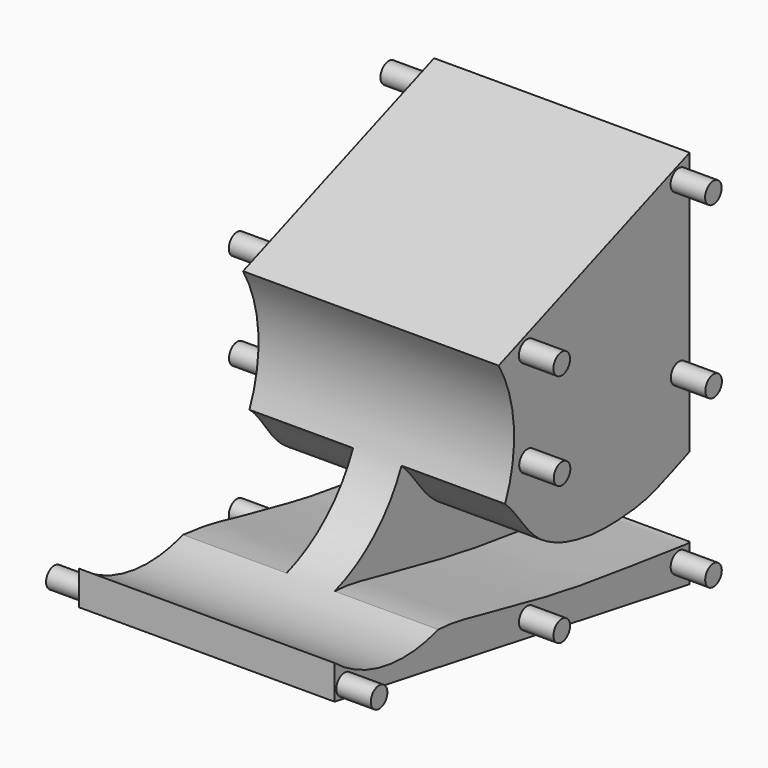
from build123d import *

# Parameters (mm, degrees)
PAD007_DEPTH    = 37
SKETCH023_R     = 1.5
PAD008_DEPTH    = 5
POCKET009_DEPTH = 15
SKETCH025_R     = 1.5
PAD009_DEPTH    = 5
POCKET010_DEPTH = 15
SKETCH027_R     = 2.5
PAD010_DEPTH    = 4


with BuildPart() as part:
    # Sketch022 → Pad007 (new body)
    with BuildSketch(Plane.YZ):
        with BuildLine():
            ThreePointArc((40.01, -59.8704961509), (65.6263560502, -59.3396910785), (69.6997545564, -34.0437057068))
            Line((69.6997545564, -34.0437057068), (104.26, -20.95))
            Line((104.26, -20.95), (104.26, -75.95))
            Line((104.26, -75.95), (40.01, -64.8058991482))
            Line((40.01, -64.8058991482), (40.01, -59.8704961509))
        make_face()
    extrude(amount=PAD007_DEPTH)

    # Sketch023 (on Face6 of Pad007) → Pad008 (join)
    with BuildSketch(Plane(origin=(0, 0, 0), x_dir=(0, 1, 0), z_dir=(-1, 0, 0))):
        with Locations((41.81, 63.3228240343)):
            Circle(SKETCH023_R)
        with Locations((74.87, 68.27)):
            Circle(SKETCH023_R)
        with Locations((102.31, 72.37618598)):
            Circle(SKETCH023_R)
        with Locations((74.87, 34.27)):
            Circle(SKETCH023_R)
        with Locations((74.91, 48.27)):
            Circle(SKETCH023_R)
        with Locations((102.35, 48.27)):
            Circle(SKETCH023_R)
        with Locations((102.31, 23.6271240211)):
            Circle(SKETCH023_R)
    extrude(amount=PAD008_DEPTH)

    # Sketch024 (on Face4 of Pad008) → Pocket009 (cut)
    with BuildSketch(Plane(origin=(0, 0, 0), x_dir=(0, 1, 0), z_dir=(-1, 0, 0))):
        with BuildLine():
            add(Edge.make_bspline(
                [(58.300468, 63.177261), (62.943481, 63.558041), (67.511467, 64.801552), (73.246834, 65.892792), (81.734642, 67.837891), (93.990623, 69.362831), (104.742752, 70.76133), (104.99115, 70.755722), (103.8428865904, 58.2494019501), (106.240501, 58.489376), (97.206341, 61.840094), (95.3178861489, 62.1659642136), (92.3058211623, 62.5674122524), (85.678726, 62.817547), (75.072052, 59.769943), (70.497215, 48.166065), (62.998041, 53.667194), (58.300468, 63.177261)],
                knots=[0, 0, 0, 0, 0.0666666667, 0.1333333333, 0.2, 0.2666666667, 0.3333333333, 0.4, 0.4666666667, 0.5333333333, 0.6, 0.6666666667, 0.7333333333, 0.8, 0.8666666667, 0.9333333333, 1, 1, 1, 1], degree=3))
        make_face()
    extrude(amount=-POCKET009_DEPTH, mode=Mode.SUBTRACT)

    # Sketch025 (on Face8 of Pocket009) → Pad009 (join)
    with BuildSketch(Plane.YZ.offset(37)):
        with Locations((74.865494, -34.270588)):
            Circle(SKETCH025_R)
        with Locations((102.304489, -23.624258)):
            Circle(SKETCH025_R)
        with Locations((74.922256, -48.279282)):
            Circle(SKETCH025_R)
        with Locations((102.348427, -48.275291)):
            Circle(SKETCH025_R)
        with Locations((102.323631, -72.377365)):
            Circle(SKETCH025_R)
        with Locations((74.871368, -68.276871)):
            Circle(SKETCH025_R)
        with Locations((41.819984, -63.327354)):
            Circle(SKETCH025_R)
    extrude(amount=PAD009_DEPTH)

    # Sketch026 (on Face8 of Pad009) → Pocket010 (cut)
    with BuildSketch(Plane.YZ.offset(37)):
        with BuildLine():
            add(Edge.make_bspline(
                [(70.4807, -51.7054), (70.9911, -52.3178), (71.7906, -53.0153), (72.6412, -54.087), (73.9, -55.7201), (75.0227, -57.183), (76.3432, -58.5683), (77.7001, -59.606), (79.6158, -60.6664), (81.7026, -61.4532), (83.5042, -61.9322), (86.1155, -62.3997), (87.7407, -62.5608), (90.6484, -62.5836), (93.693, -62.3441), (95.3943, -62.1191), (97.1141, -61.7522), (101.15, -60.3458), (113.6017201623, -55.1743962164), (104.432, -70.6446), (104.11, -70.6138), (103.623, -70.6036), (103.367, -70.578), (90.5798, -68.9325), (84.6535, -68.1227), (79.0029, -67.1584), (72.4914, -65.7787), (64.314, -64.0299), (63.4967, -63.8445), (63.0868, -63.7728), (58.23893, -62.897728), (52.25098, -63.646221), (70.4807, -51.7054)],
                knots=[0, 0, 0, 0, 0.0333333333, 0.0666666667, 0.1, 0.1333333333, 0.1666666667, 0.2, 0.2333333333, 0.2666666667, 0.3, 0.3333333333, 0.3666666667, 0.4, 0.4333333333, 0.4666666667, 0.5, 0.5333333333, 0.5666666667, 0.6, 0.6333333333, 0.6666666667, 0.7, 0.7333333333, 0.7666666667, 0.8, 0.8333333333, 0.8666666667, 0.9, 0.9333333333, 0.9666666667, 1, 1, 1, 1], degree=3))
        make_face()
    extrude(amount=-POCKET010_DEPTH, mode=Mode.SUBTRACT)

    # Sketch027 (on Face15 of Pocket010) → Pad010 (join)
    with BuildSketch(Plane.ZX.offset(104.26)):
        with Locations((-48.5, 18.5)):
            Circle(SKETCH027_R)
        with Locations((-68.5, 18.520462)):
            Circle(SKETCH027_R)
        with Locations((-28.5, 18.497219)):
            Circle(SKETCH027_R)
    extrude(amount=PAD010_DEPTH)


with BuildPart() as part_1:
    # Body003 placement: moved
    add(part.part.moved(Location((34, 0, 0))))


solid = part_1.part
